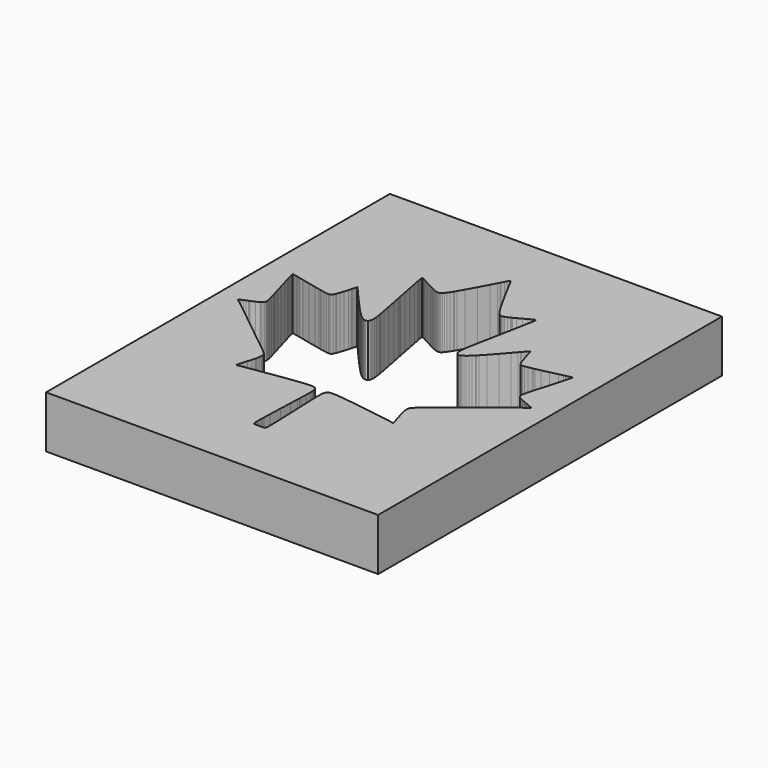
from build123d import *

# Parameters (mm, degrees)
F0_W     = 161.925
F0_H     = 209.55
F1_DEPTH = 25.4


with BuildPart() as f1:
    # F0 (on Top) → F1 (new body)
    with BuildSketch(Plane.XY):
        Rectangle(F0_W, F0_H)
        Polygon((-2.870454, 72.841612), (-2.374138, 73.773284), (-2.168906, 74.160634), (-1.57226, 75.331828), (-1.006094, 76.44384), (-0.596646, 77.112368), (-0.264668, 77.33411), (0.066294, 77.112368), (0.477012, 76.44384), (1.043178, 75.331828), (1.639824, 74.160634), (1.846326, 73.773284), (2.341372, 72.841612), (3.833622, 70.047104), (6.26745, 65.544954), (8.771128, 61.018166), (10.402824, 58.159904), (10.970768, 57.221628), (11.184128, 56.866028), (11.849862, 55.810404), (12.580112, 54.727348), (13.18514, 53.92801), (13.68679, 53.368702), (14.106906, 53.009038), (14.466824, 52.802282), (14.790674, 52.708556), (15.020544, 52.682394), (15.09776, 52.681124), (15.257526, 52.678076), (15.741396, 52.72659), (16.524224, 52.923694), (17.552162, 53.322982), (18.59534, 53.805582), (18.938494, 53.976524), (19.387566, 54.20106), (20.725638, 54.89956), (22.704552, 55.959502), (24.596598, 56.984646), (25.741884, 57.60466), (26.124916, 57.807352), (26.260044, 57.88025), (26.673302, 58.0898), (27.075638, 58.256678), (27.345894, 58.28284), (27.495754, 58.144918), (27.53995, 57.822338), (27.491944, 57.289446), (27.364944, 56.524398), (27.221688, 55.758334), (27.173428, 55.501794), (27.039824, 54.796182), (26.637488, 52.676806), (25.944322, 49.01946), (25.141174, 44.816522), (24.493474, 41.46931), (24.275796, 40.353234), (24.05761, 39.240968), (23.397718, 35.904678), (22.566884, 31.684976), (21.843238, 27.902662), (21.41601, 25.547574), (21.286724, 24.760682), (21.188934, 24.173434), (20.940522, 22.401276), (20.790662, 20.722844), (20.802854, 19.559778), (20.891246, 18.943828), (20.948904, 18.746978), (21.014944, 18.5166), (21.557996, 17.731232), (22.4028, 17.425416), (22.620478, 17.433544), (22.705822, 17.437862), (22.966426, 17.473422), (23.364444, 17.585182), (23.834598, 17.794478), (24.398224, 18.132044), (25.07615, 18.625566), (25.88641, 19.302222), (26.851102, 20.190968), (27.711146, 21.032978), (27.992324, 21.318474), (28.701746, 22.042882), (30.775656, 24.275796), (33.894268, 27.745182), (36.90366, 31.167324), (38.744906, 33.279588), (39.358062, 33.983676), (39.579804, 34.240216), (40.251126, 35.009074), (40.926512, 35.776662), (41.414446, 36.31946), (41.746424, 36.67506), (41.951656, 36.873434), (42.064432, 36.95065), (42.114216, 36.940998), (42.130726, 36.892738), (42.133774, 36.876228), (42.141902, 36.823904), (42.16654, 36.65855), (42.245026, 36.250626), (42.414444, 35.543744), (42.640504, 34.706052), (42.720768, 34.427668), (42.832274, 34.034984), (43.183556, 32.856678), (43.7515, 31.033466), (44.345352, 29.227018), (44.744894, 28.081732), (44.889674, 27.704034), (44.988734, 27.44216), (45.329094, 26.670762), (45.702728, 26.06421), (46.06925, 25.763728), (46.383194, 25.661874), (46.49089, 25.646634), (46.628812, 25.627584), (47.051722, 25.619202), (47.953168, 25.703022), (49.42205, 25.94991), (51.119532, 26.290016), (51.684682, 26.409904), (52.472844, 26.579576), (54.83606, 27.106118), (58.456322, 27.928824), (61.989716, 28.741878), (64.158622, 29.243528), (64.882268, 29.407104), (65.143888, 29.46781), (65.932304, 29.64561), (66.72199, 29.819346), (67.286632, 29.934916), (67.66306, 29.998416), (67.888866, 30.01645), (68.000626, 29.997146), (68.03644, 29.946346), (68.0339, 29.888434), (68.031106, 29.868876), (68.0212, 29.811218), (67.984116, 29.618178), (67.847718, 29.042106), (67.544696, 27.89174), (67.136772, 26.40711), (66.99885, 25.912572), (66.793618, 25.181052), (66.169032, 22.982682), (65.16624, 19.467576), (64.136778, 15.862554), (63.45301, 13.462), (63.228474, 12.661646), (63.057532, 12.059412), (62.554612, 10.245852), (62.111128, 8.542528), (61.861446, 7.364222), (61.776102, 6.734556), (61.769244, 6.523482), (61.763656, 6.359652), (61.807852, 5.862066), (62.002162, 5.309616), (62.386718, 4.823206), (62.83579, 4.462018), (62.996826, 4.35991), (63.241174, 4.205732), (64.876426, 3.402584), (66.779902, 2.600452), (67.158616, 2.44475), (67.431666, 2.33299), (68.254372, 1.992376), (69.240654, 1.581912), (70.071996, 1.234694), (70.541896, 1.03759), (70.698868, 0.97155), (70.794118, 0.931672), (71.073772, 0.796544), (71.167244, 0.63119), (70.949566, 0.378968), (70.534784, 0.051054), (70.395846, -0.056388), (70.15861, -0.236982), (69.448934, -0.780034), (67.960748, -1.932178), (65.756028, -3.662934), (63.431166, -5.506466), (62.65926, -6.12394), (61.646562, -6.931406), (58.612278, -9.36371), (54.027324, -13.045694), (49.43729, -16.73479), (46.387512, -19.18081), (45.370496, -19.995388), (44.587922, -20.619466), (42.236898, -22.490938), (39.96436, -24.291798), (38.364668, -25.568402), (37.51961, -26.254456), (37.24275, -26.488644), (37.035994, -26.662126), (36.42995, -27.203654), (35.853878, -27.800554), (35.465004, -28.343606), (35.262566, -28.757118), (35.214306, -28.901644), (35.160712, -29.055822), (35.062922, -29.542232), (35.032696, -30.359604), (35.1536, -31.449518), (35.374072, -32.548068), (35.463734, -32.910272), (35.578288, -33.377378), (35.966654, -34.771838), (36.577524, -36.818316), (37.17544, -38.768528), (37.536374, -39.946326), (37.650928, -40.341804), (37.721032, -40.587422), (37.912548, -41.330118), (37.991034, -41.82364), (37.93871, -41.983406), (37.841174, -41.981882), (37.812218, -41.975024), (37.762434, -41.961054), (37.574982, -41.918382), (36.841938, -41.784778), (35.13455, -41.502584), (32.765746, -41.123362), (31.977584, -40.99941), (30.764734, -40.807894), (27.125422, -40.23995), (21.274278, -39.352728), (15.348712, -38.498272), (11.546332, -37.988494), (10.277348, -37.841174), (9.400794, -37.739066), (6.763512, -37.502084), (4.624578, -37.450776), (3.453384, -37.610796), (2.976626, -37.812218), (2.843022, -37.912548), (2.687066, -38.026848), (2.174494, -38.761416), (1.912874, -39.77005), (1.882394, -40.023796), (1.854962, -40.245538), (1.806702, -40.916606), (1.78181, -42.34561), (1.818894, -44.70654), (1.901952, -47.473362), (1.934718, -48.395382), (1.980184, -49.691798), (2.131822, -53.586126), (2.367534, -59.57824), (2.588006, -65.445894), (2.706624, -69.061838), (2.735326, -70.267576), (2.744978, -70.70725), (2.765806, -72.027288), (2.763012, -73.355708), (2.724404, -74.313542), (2.648712, -74.963782), (2.534412, -75.366372), (2.376932, -75.581256), (2.178812, -75.670918), (1.995424, -75.694286), (1.934718, -75.69708), (1.598422, -75.71359), (-0.265938, -75.74661), (-2.129028, -75.71359), (-2.4638, -75.69708), (-2.525776, -75.694286), (-2.709418, -75.670918), (-2.907538, -75.581256), (-3.06451, -75.366372), (-3.179318, -74.963782), (-3.25501, -74.313542), (-3.293618, -73.355708), (-3.296412, -72.027288), (-3.275584, -70.70725), (-3.264662, -70.267576), (-3.236976, -69.061838), (-3.118612, -65.445894), (-2.89814, -59.57824), (-2.662428, -53.586126), (-2.51079, -49.691798), (-2.4638, -48.395382), (-2.432304, -47.473362), (-2.3495, -44.70654), (-2.312416, -42.34561), (-2.337054, -40.916606), (-2.384044, -40.245538), (-2.411476, -40.023796), (-2.443226, -39.77005), (-2.7051, -38.761416), (-3.216402, -38.026848), (-3.372104, -37.912548), (-3.506978, -37.812218), (-3.98399, -37.610796), (-5.155184, -37.450776), (-7.294118, -37.502084), (-9.9314, -37.739066), (-10.806684, -37.841174), (-12.076938, -37.988494), (-15.879318, -38.498272), (-21.80336, -39.352728), (-27.656028, -40.23995), (-31.29534, -40.807894), (-32.506666, -40.99941), (-33.296098, -41.123362), (-35.665156, -41.502584), (-37.371274, -41.784778), (-38.105588, -41.918382), (-38.29304, -41.961054), (-38.3413, -41.975024), (-38.371526, -41.981882), (-38.469316, -41.983406), (-38.52164, -41.82364), (-38.443154, -41.330118), (-38.251638, -40.587422), (-38.18001, -40.341804), (-38.066726, -39.946326), (-37.706046, -38.768528), (-37.107622, -36.818316), (-36.49726, -34.771838), (-36.10864, -33.377378), (-35.992816, -32.910272), (-35.904678, -32.548068), (-35.684206, -31.449518), (-35.563302, -30.359604), (-35.593528, -29.542232), (-35.691318, -29.055822), (-35.743388, -28.901644), (-35.793172, -28.757118), (-35.99561, -28.343606), (-36.384484, -27.800554), (-36.960556, -27.203654), (-37.565076, -26.662126), (-37.771832, -26.488644), (-38.050216, -26.254456), (-38.895274, -25.568402), (-40.494966, -24.291798), (-42.76725, -22.490938), (-45.118528, -20.619466), (-45.899578, -19.995388), (-46.918118, -19.18081), (-49.967642, -16.73479), (-54.55793, -13.045694), (-59.14263, -9.36371), (-62.17572, -6.931406), (-63.188571, -6.12394), (-63.961645, -5.506466), (-66.28638, -3.662934), (-68.491252, -1.932178), (-69.97954, -0.780034), (-70.689216, -0.235712), (-70.924877, -0.056388), (-71.065415, 0.051054), (-71.480223, 0.378968), (-71.69658, 0.63119), (-71.604251, 0.796544), (-71.324495, 0.931672), (-71.228026, 0.97155), (-71.072299, 1.03759), (-70.602399, 1.234694), (-69.771438, 1.581912), (-68.784775, 1.992376), (-67.962069, 2.33299), (-67.68785, 2.44475), (-67.310279, 2.600452), (-65.407184, 3.402584), (-63.771475, 4.205732), (-63.526187, 4.35991), (-63.366345, 4.462018), (-62.917095, 4.823206), (-62.532616, 5.309616), (-62.338306, 5.862066), (-62.29284, 6.359652), (-62.298326, 6.523482), (-62.306632, 6.734556), (-62.392077, 7.364222), (-62.64148, 8.542528), (-63.085193, 10.245852), (-63.588189, 12.059412), (-63.757708, 12.661646), (-63.983692, 13.462), (-64.667206, 15.862554), (-65.696617, 19.467576), (-66.69979, 22.982682), (-67.322675, 25.181052), (-67.528008, 25.912572), (-67.667175, 26.40711), (-68.075073, 27.89174), (-68.378248, 29.042106), (-68.514671, 29.618178), (-68.551882, 29.811218), (-68.560137, 29.868876), (-68.562931, 29.888434), (-68.567046, 29.946346), (-68.531207, 29.997146), (-68.419599, 30.01645), (-68.19359, 29.998416), (-67.81739, 29.934916), (-67.252393, 29.819346), (-66.462758, 29.64561), (-65.67457, 29.46781), (-65.41135, 29.407104), (-64.689253, 29.243528), (-62.52022, 28.741878), (-58.986903, 27.928824), (-55.36692, 27.106118), (-53.00345, 26.579576), (-52.213764, 26.409904), (-51.650392, 26.290016), (-49.952402, 25.94991), (-48.48352, 25.703022), (-47.582328, 25.619202), (-47.159164, 25.627584), (-47.019972, 25.646634), (-46.914054, 25.661874), (-46.599602, 25.763728), (-46.23308, 26.06421), (-45.8597, 26.670762), (-45.51934, 27.44216), (-45.418756, 27.704034), (-45.2755, 28.081732), (-44.875704, 29.227018), (-44.281852, 31.033466), (-43.714162, 32.856678), (-43.362626, 34.034984), (-43.24985, 34.427668), (-43.17111, 34.706052), (-42.94505, 35.543744), (-42.775632, 36.250626), (-42.697146, 36.65855), (-42.672254, 36.823904), (-42.662856, 36.876228), (-42.660062, 36.892738), (-42.644822, 36.940998), (-42.595038, 36.95065), (-42.482262, 36.873434), (-42.275506, 36.67506), (-41.944544, 36.31946), (-41.457118, 35.776662), (-40.781732, 35.009074), (-40.11041, 34.240216), (-39.887144, 33.983676), (-39.273988, 33.281112), (-37.434266, 31.167324), (-34.424874, 27.745182), (-31.306262, 24.275796), (-29.232352, 22.042882), (-28.521406, 21.318474), (-28.241498, 21.032978), (-27.381454, 20.190968), (-26.417016, 19.302222), (-25.606756, 18.625566), (-24.928576, 18.132044), (-24.36495, 17.794478), (-23.89505, 17.585182), (-23.496778, 17.473422), (-23.236428, 17.437862), (-23.14956, 17.433544), (-22.931882, 17.425416), (-22.088602, 17.731232), (-21.54555, 18.5166), (-21.47824, 18.746978), (-21.421852, 18.943828), (-21.33346, 19.559778), (-21.32076, 20.722844), (-21.471128, 22.401276), (-21.719032, 24.173434), (-21.815806, 24.760682), (-21.945346, 25.547574), (-22.373844, 27.902662), (-23.09749, 31.684976), (-23.9268, 35.904678), (-24.586946, 39.240968), (-24.803354, 40.353234), (-25.022556, 41.46931), (-25.670256, 44.816522), (-26.474928, 49.01946), (-27.168094, 52.676806), (-27.568906, 54.796182), (-27.70251, 55.501794), (-27.752294, 55.758334), (-27.89555, 56.524398), (-28.02255, 57.289446), (-28.070556, 57.822338), (-28.02636, 58.144918), (-27.8765, 58.28284), (-27.606244, 58.256678), (-27.203654, 58.0898), (-26.790396, 57.88025), (-26.653998, 57.807352), (-26.27249, 57.60466), (-25.127204, 56.984646), (-23.234904, 55.959502), (-21.256244, 54.89956), (-19.918172, 54.20106), (-19.467576, 53.976524), (-19.125946, 53.805582), (-18.082768, 53.322982), (-17.053306, 52.923694), (-16.271748, 52.72659), (-15.786862, 52.678076), (-15.625572, 52.681124), (-15.549626, 52.682394), (-15.319756, 52.708556), (-14.997176, 52.802282), (-14.635988, 53.009038), (-14.217396, 53.368702), (-13.715746, 53.92801), (-13.110718, 54.727348), (-12.378944, 55.810404), (-11.714734, 56.866028), (-11.49985, 57.221628), (-10.933176, 58.159904), (-9.301734, 61.018166), (-6.798056, 65.544954), (-4.364228, 70.047104), align=None, mode=Mode.SUBTRACT)
    extrude(amount=F1_DEPTH)


solid = f1.part
